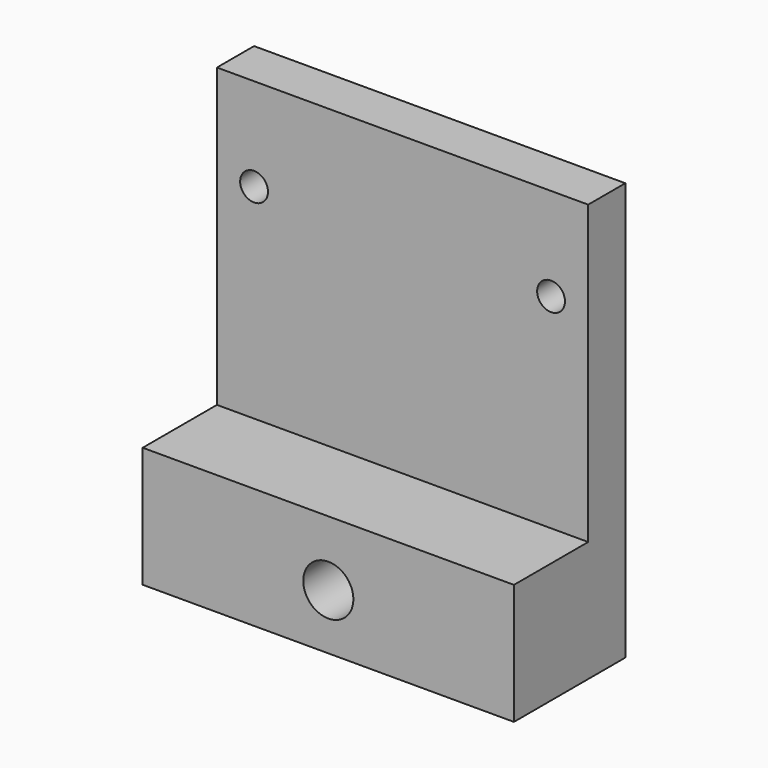
from build123d import *

# Parameters (mm, degrees)
F0_W      = 40
F0_H      = 45
F1_DEPTH  = 15
F2_R      = 1.5
F3_DEPTH  = 25
F7_R      = 2.7
F8_DEPTH  = 10
F9_W      = 40
F9_H      = 32
F10_DEPTH = 10
F11_R     = 0.5
F12_DEPTH = 15


with BuildPart() as f1:
    # F0 (on Front) → F1 (new body)
    with BuildSketch(Plane.XZ):
        Rectangle(F0_W, F0_H)
    extrude(amount=F1_DEPTH)

    # F2 (on face) → F3 (cut)
    with BuildSketch(Plane.XZ.offset(15)):
        with Locations((16, 12.5)):
            Circle(F2_R)
        with Locations((-16, 12.5)):
            Circle(F2_R)
    extrude(amount=-F3_DEPTH, mode=Mode.SUBTRACT)

    # F7 (on face) → F8 (cut)
    with BuildSketch(Plane.XZ.offset(15)):
        with Locations((0, -16.5)):
            Circle(F7_R)
    extrude(amount=-F8_DEPTH, mode=Mode.SUBTRACT)

    # F9 (on face) → F10 (cut)
    with BuildSketch(Plane.XZ.offset(15)):
        with Locations((0, 6.5)):
            Rectangle(F9_W, F9_H)
    extrude(amount=-F10_DEPTH, mode=Mode.SUBTRACT)

    # F11 (on face) → F12 (cut)
    with BuildSketch(Plane.XZ.offset(15)):
        with Locations((0, -16.5)):
            Circle(F11_R)
    extrude(amount=-F12_DEPTH, mode=Mode.SUBTRACT)


solid = f1.part
